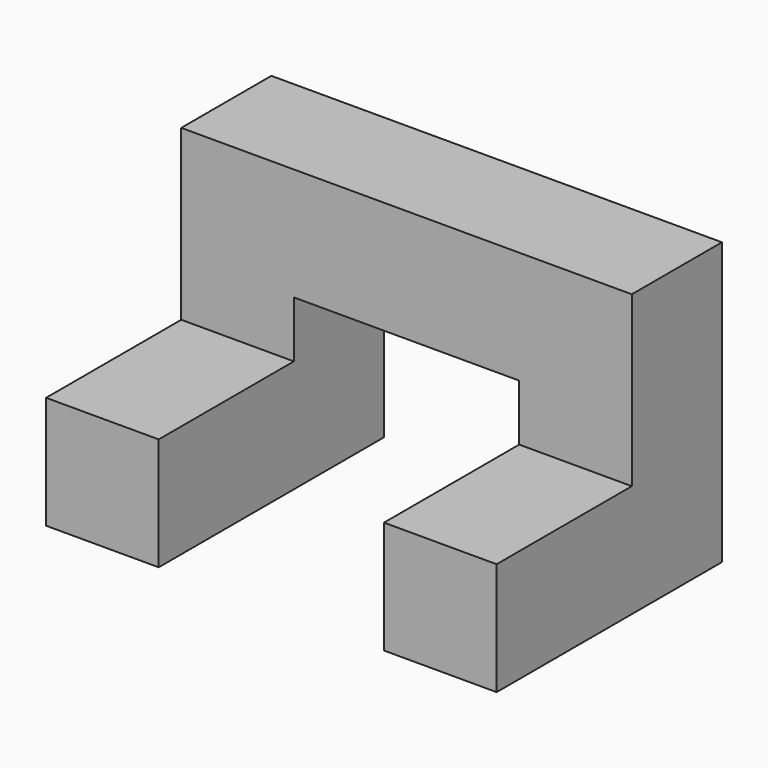
from build123d import *

# Parameters (mm, degrees)
F1_DEPTH = 50.8
F2_W     = 50.8
F2_H     = 50.8
F3_DEPTH = 76.2
F4_W     = 50.8
F4_H     = 50.8
F5_DEPTH = 76.2


with BuildPart() as f1:
    # F0 (on Front) → F1 (new body)
    with BuildSketch(Plane.XZ):
        Polygon((-72.271809, 79.84082), (-72.271809, -47.15918), (-21.471809, -47.15918), (-21.471809, 29.04082), (80.128191, 29.04082), (80.128191, -47.15918), (130.928191, -47.15918), (130.928191, 79.84082), align=None)
    extrude(amount=F1_DEPTH)

    # F2 (on face) → F3 (join)
    with BuildSketch(Plane.XZ.offset(50.8)):
        with Locations((-46.871809, -21.75918)):
            Rectangle(F2_W, F2_H)
    extrude(amount=F3_DEPTH)

    # F4 (on face) → F5 (join)
    with BuildSketch(Plane.XZ.offset(50.8)):
        with Locations((105.528191, -21.75918)):
            Rectangle(F4_W, F4_H)
    extrude(amount=F5_DEPTH)


solid = f1.part
